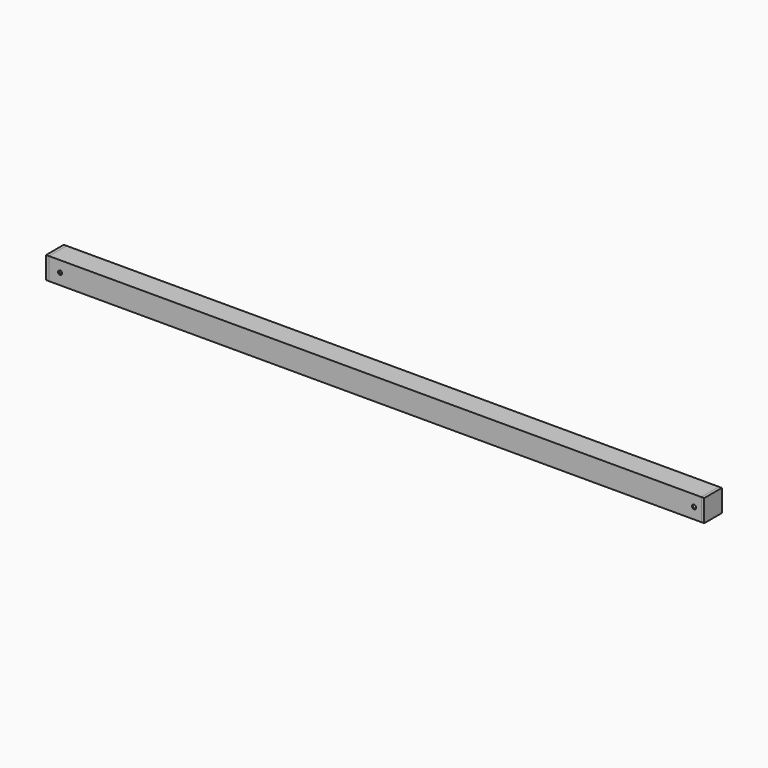
from build123d import *

# Parameters (mm, degrees)
F0_W     = 75
F0_H     = 75
F0_W_2   = 67
F0_H_2   = 67
F1_DEPTH = 2210
F2_W     = 75
F2_H     = 75
F3_DEPTH = 10
F4_W     = 75
F4_H     = 75
F5_DEPTH = 10
F6_R     = 7
F7_DEPTH = 75


with BuildPart() as f1:
    # F0 (on Right) → F1 (new body)
    with BuildSketch(Plane.YZ):
        Rectangle(F0_W, F0_H)
        Rectangle(F0_W_2, F0_H_2, mode=Mode.SUBTRACT)
    extrude(amount=F1_DEPTH)

    # F6 (on face) → F7 (cut)
    with BuildSketch(Plane.XZ.offset(37.5)):
        with BuildLine():
            ThreePointArc((44.5, 0), (37.5, 7), (30.5, 0))
            ThreePointArc((30.5, 0), (37.5, -7), (44.5, 0))
        make_face()
        with Locations((2185.76622, 0)):
            Circle(F6_R)
    extrude(amount=-F7_DEPTH, mode=Mode.SUBTRACT)


with BuildPart() as f3:
    # F2 (on face) → F3 (new body)
    with BuildSketch(Plane.YZ.offset(2210)):
        Rectangle(F2_W, F2_H)
    extrude(amount=F3_DEPTH)


with BuildPart() as f5:
    # F4 (on face) → F5 (new body)
    with BuildSketch(Plane(origin=(0, 0, 0), x_dir=(0, -1, 0), z_dir=(-1, 0, 0))):
        Rectangle(F4_W, F4_H)
    extrude(amount=F5_DEPTH)


solid = Compound([f1.part, f3.part, f5.part])
